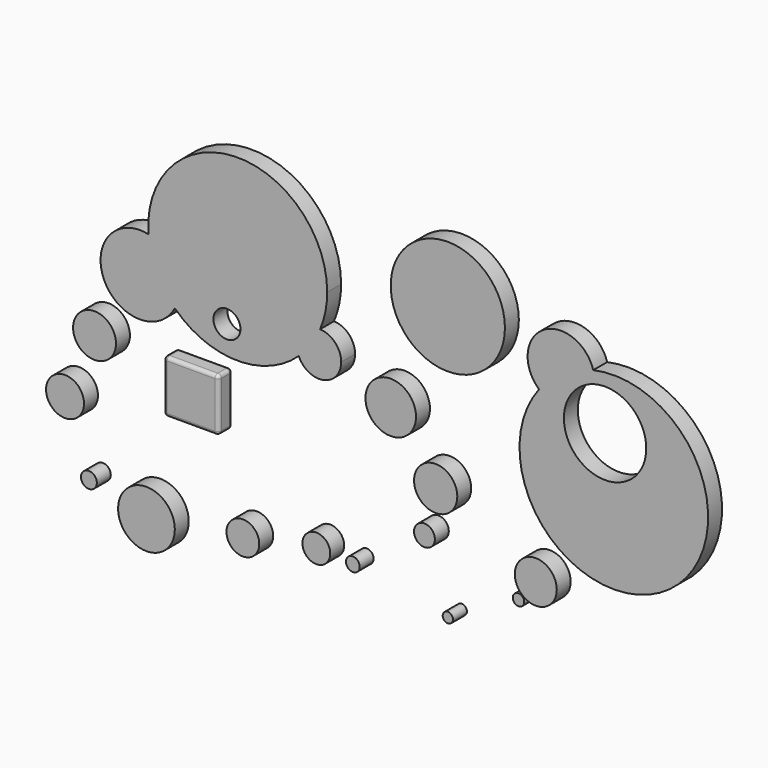
from build123d import *

# Parameters (mm, degrees)
F0_W     = 78.8675989024
F0_H     = 76.2230791152
F1_DEPTH = 25
F2_R     = 5
F3_R     = 19.4065602364
F4_DEPTH = 25
F3_R_2   = 36.3155411113
F3_R_3   = 31.0757340736
F3_R_4   = 15.000496802
F3_R_5   = 9.892657246
F3_R_6   = 19.9979714781
F3_R_7   = 23.5316753387
F3_R_8   = 40.7420628041
F3_R_9   = 11.429682374
F3_R_10  = 27.2893080402
F3_R_11  = 30.8405329332
F3_R_12  = 82.0382817694
F3_R_13  = 30.1326732851
F3_R_14  = 8.2363305693
F3_R_15  = 7.3966551411


with BuildPart() as f1:
    # F0 (on Front) → F1 (new body)
    with BuildSketch(Plane.XZ):
        with Locations((-42.1925412957, 26.1179041117)):
            Rectangle(F0_W, F0_H)
    extrude(amount=F1_DEPTH)

    # F2
    f2_edges = [f1.edges().sort_by_distance(p)[0] for p in [
        (-2.758742, -12.5, -11.993635),
        (-2.758742, -12.5, 64.229444),
        (-81.626341, -12.5, 64.229444),
        (-42.192541, 0, 64.229444),
        (-42.192541, -25, 64.229444),
        (-42.192541, -25, -11.993635),
        (-81.626341, -12.5, -11.993635),
        (-42.192541, 0, -11.993635),
        (-81.626341, 0, 26.117904),
        (-81.626341, -25, 26.117904),
        (-2.758742, 0, 26.117904),
        (-2.758742, -25, 26.117904),
    ]]
    fillet(f2_edges, radius=F2_R)


with BuildPart() as f4:
    # F3 (on Front) → F4 (new body)
    with BuildSketch(Plane.XZ):
        with BuildLine():
            ThreePointArc((112.5351069499, 127.1479672968), (147.9616829469, 108.2004637366), (173.4512244141, 139.2541825771))
            ThreePointArc((173.4512244141, 139.2541825771), (164.651722768, 161.1578651168), (143.1444821906, 170.8862329532))
            ThreePointArc((143.1444821906, 170.8862329532), (130.1350706966, 147.4107957328), (112.5351069499, 127.1479672968))
        make_face()
        with BuildLine():
            ThreePointArc((112.5351069499, 127.1479672968), (130.1350706966, 147.4107957328), (143.1444821906, 170.8862329532))
            ThreePointArc((143.1444821906, 170.8862329532), (115.8504068042, 157.4076401597), (112.5351069499, 127.1479672968))
        make_face()
        with BuildLine():
            ThreePointArc((112.5351069499, 127.1479672968), (115.8504068042, 157.4076401597), (143.1444821906, 170.8862329532))
            ThreePointArc((143.1444821906, 170.8862329532), (150.7852272673, 195.4907102187), (153.3666987171, 221.1246192455))
            ThreePointArc((153.3666987171, 221.1246192455), (19.6614008756, 349.584304916), (-103.3470381147, 210.8474264352))
            ThreePointArc((-103.3470381147, 210.8474264352), (-71.5830572313, 191.0169256315), (-59.1813148657, 155.6842774153))
            ThreePointArc((-59.1813148657, 155.6842774153), (-60.7921165941, 142.2853921162), (-65.5327271779, 129.6500677928))
            ThreePointArc((-65.5327271779, 129.6500677928), (22.9978087819, 92.5747238799), (112.5351069499, 127.1479672968))
        make_face()
        with Locations((9.3404352665, 133.9635848999)):
            Circle(F3_R, mode=Mode.SUBTRACT)
        with BuildLine():
            ThreePointArc((-103.3470381147, 210.8474264352), (-91.7398844476, 166.8490732506), (-65.5327271779, 129.6500677928))
            ThreePointArc((-65.5327271779, 129.6500677928), (-60.7921165941, 142.2853921162), (-59.1813148657, 155.6842774153))
            ThreePointArc((-59.1813148657, 155.6842774153), (-71.5830572313, 191.0169256315), (-103.3470381147, 210.8474264352))
        make_face()
        with BuildLine():
            ThreePointArc((-103.3470381147, 210.8474264352), (-166.9611230944, 131.8178929905), (-65.5327271779, 129.6500677928))
            ThreePointArc((-65.5327271779, 129.6500677928), (-91.7398844476, 166.8490732506), (-103.3470381147, 210.8474264352))
        make_face()
    extrude(amount=F4_DEPTH)


with BuildPart() as f4b:
    # F3 (on Front) → F4, piece 2 (new body)
    with BuildSketch(Plane.XZ):
        with Locations((244.6572482586, 105.0776317716)):
            Circle(F3_R_2)
    extrude(amount=F4_DEPTH)


with BuildPart() as f4c:
    # F3 (on Front) → F4, piece 3 (new body)
    with BuildSketch(Plane.XZ):
        with Locations((309.2013001442, 23.5321633518)):
            Circle(F3_R_3)
    extrude(amount=F4_DEPTH)


with BuildPart() as f4d:
    # F3 (on Front) → F4, piece 4 (new body)
    with BuildSketch(Plane.XZ):
        with Locations((293.0652797222, -40.9636050463)):
            Circle(F3_R_4)
    extrude(amount=F4_DEPTH)


with BuildPart() as f4e:
    # F3 (on Front) → F4, piece 5 (new body)
    with BuildSketch(Plane.XZ):
        with Locations((190.1982277632, -110.9987869859)):
            Circle(F3_R_5)
    extrude(amount=F4_DEPTH)


with BuildPart() as f4f:
    # F3 (on Front) → F4, piece 6 (new body)
    with BuildSketch(Plane.XZ):
        with Locations((137.7561837435, -107.9844906926)):
            Circle(F3_R_6)
    extrude(amount=F4_DEPTH)


with BuildPart() as f4g:
    # F3 (on Front) → F4, piece 7 (new body)
    with BuildSketch(Plane.XZ):
        with Locations((32.199781388, -129.043340683)):
            Circle(F3_R_7)
    extrude(amount=F4_DEPTH)


with BuildPart() as f4h:
    # F3 (on Front) → F4, piece 8 (new body)
    with BuildSketch(Plane.XZ):
        with Locations((-106.3009649515, -150.1996964216)):
            Circle(F3_R_8)
    extrude(amount=F4_DEPTH)


with BuildPart() as f4i:
    # F3 (on Front) → F4, piece 9 (new body)
    with BuildSketch(Plane.XZ):
        with Locations((-188.998028636, -127.6812553406)):
            Circle(F3_R_9)
    extrude(amount=F4_DEPTH)


with BuildPart() as f4j:
    # F3 (on Front) → F4, piece 10 (new body)
    with BuildSketch(Plane.XZ):
        with Locations((-223.2870310545, -33.3679094911)):
            Circle(F3_R_10)
    extrude(amount=F4_DEPTH)


with BuildPart() as f4k:
    # F3 (on Front) → F4, piece 11 (new body)
    with BuildSketch(Plane.XZ):
        with Locations((-180.930018425, 57.5225576758)):
            Circle(F3_R_11)
    extrude(amount=F4_DEPTH)


with BuildPart() as f4l:
    # F3 (on Front) → F4, piece 12 (new body)
    with BuildSketch(Plane.XZ):
        with Locations((326.6819417477, 259.1888904572)):
            Circle(F3_R_12)
    extrude(amount=F4_DEPTH)


with BuildPart() as f4m:
    # F3 (on Front) → F4, piece 13 (new body)
    with BuildSketch(Plane.XZ):
        with BuildLine():
            ThreePointArc((537.3311280358, 229.6312321422), (537.4507602824, 231.5868218113), (537.4906597608, 233.5456609726))
            ThreePointArc((537.4906597608, 233.5456609726), (537.0181292103, 240.2715706325), (535.6098210065, 246.8653414716))
            ThreePointArc((535.6098210065, 246.8653414716), (492.3479367414, 228.8987832121), (457.7893002656, 197.274607479))
            ThreePointArc((457.7893002656, 197.274607479), (475.1420775277, 187.5992028037), (494.9247850219, 185.7615906189))
            ThreePointArc((494.9247850219, 185.7615906189), (510.0380936152, 213.5831432219), (537.3311280358, 229.6312321422))
        make_face()
        with BuildLine():
            ThreePointArc((535.6098210065, 246.8653414716), (537.0181292103, 240.2715706325), (537.4906597608, 233.5456609726))
            ThreePointArc((537.4906597608, 233.5456609726), (537.4507602824, 231.5868218113), (537.3311280358, 229.6312321422))
            ThreePointArc((537.3311280358, 229.6312321422), (588.635808095, 219.383295483), (611.7629900894, 172.4543720484))
            ThreePointArc((611.7629900894, 172.4543720484), (545.8894533095, 113.6575859341), (494.9247850219, 185.7615906189))
            ThreePointArc((494.9247850219, 185.7615906189), (475.1420775277, 187.5992028037), (457.7893002656, 197.274607479))
            ThreePointArc((457.7893002656, 197.274607479), (521.5160237261, -13.6451658436), (700.6633348482, 114.6298784136))
            ThreePointArc((700.6633348482, 114.6298784136), (649.8854604981, 220.3758950308), (535.6098210065, 246.8653414716))
        make_face()
        with BuildLine():
            ThreePointArc((457.7893002656, 197.274607479), (492.3479367414, 228.8987832121), (535.6098210065, 246.8653414716))
            ThreePointArc((535.6098210065, 246.8653414716), (463.5354780167, 274.1128859539), (457.7893002656, 197.274607479))
        make_face()
    extrude(amount=F4_DEPTH)


with BuildPart() as f4n:
    # F3 (on Front) → F4, piece 14 (new body)
    with BuildSketch(Plane.XZ):
        with Locations((453.0807137489, -47.8854887187)):
            Circle(F3_R_13)
    extrude(amount=F4_DEPTH)


with BuildPart() as f4o:
    # F3 (on Front) → F4, piece 15 (new body)
    with BuildSketch(Plane.XZ):
        with Locations((428.2043576241, -78.5983726382)):
            Circle(F3_R_14)
    extrude(amount=F4_DEPTH)


with BuildPart() as f4p:
    # F3 (on Front) → F4, piece 16 (new body)
    with BuildSketch(Plane.XZ):
        with Locations((326.6819417477, -134.1263800859)):
            Circle(F3_R_15)
    extrude(amount=F4_DEPTH)


solid = Compound([f1.part, f4.part, f4b.part, f4c.part, f4d.part, f4e.part, f4f.part, f4g.part, f4h.part, f4i.part, f4j.part, f4k.part, f4l.part, f4m.part, f4n.part, f4o.part, f4p.part])
